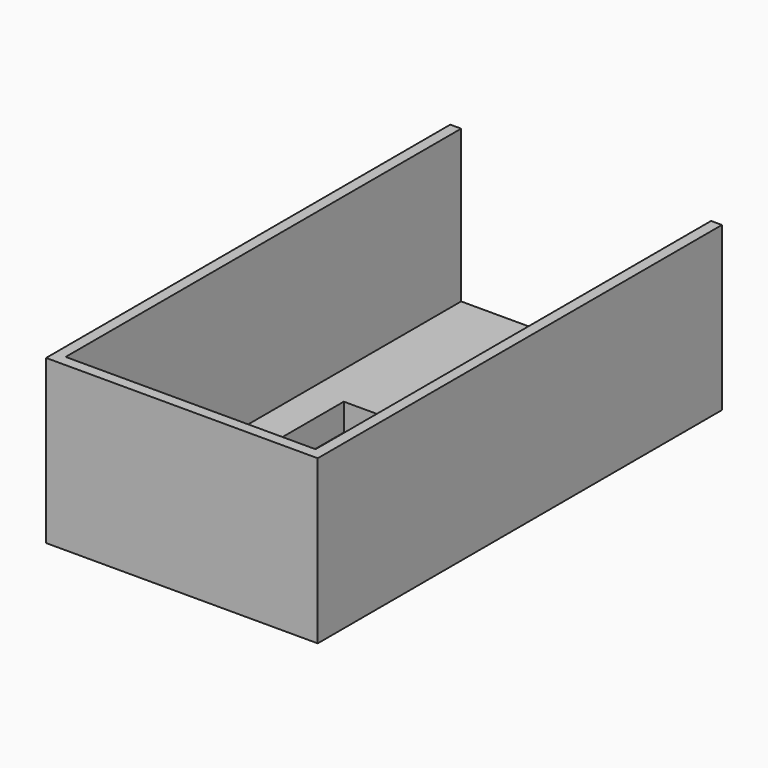
from build123d import *

# Parameters (mm, degrees)
F1_W     = 47.4542081356
F1_H     = 32.0040024817
F2_DEPTH = 6.35
F0_W     = 63.5
F0_H     = 120.65
F3_DEPTH = 38.1
F4_T     = -2.54
F5_DEPTH = 2.54
F6_W     = 9.9322763272
F6_H     = 13.2430342492
F7_DEPTH = 44.451


with BuildPart() as f2:
    # F1 (on Top) → F2 (new body)
    with BuildSketch(Plane.XY):
        Rectangle(F1_W, F1_H)
    extrude(amount=-F2_DEPTH)

    # F0 (on Top) → F3 (join)
    with BuildSketch(Plane.XY):
        Rectangle(F0_W, F0_H)
    extrude(amount=F3_DEPTH)

    # F4
    f4_openings = [f2.faces().sort_by_distance(p)[0] for p in [
        (0, 0, 38.1),
    ]]
    offset(amount=F4_T, openings=f4_openings, kind=Kind.INTERSECTION)

    # F5 (cut): a face of the model
    f5_faces = [f2.faces().sort_by_distance(p)[0] for p in [
        (0, 60.325, 19.05),
    ]]
    extrude(f5_faces, amount=-F5_DEPTH, mode=Mode.SUBTRACT)

    # F6 (on face) → F7 (cut, through all)
    with BuildSketch(Plane(origin=(0, 0, -6.35), x_dir=(1, 0, 0), z_dir=(0, 0, -1))):
        with Locations((11.5876549389, 3.8625515299)):
            Rectangle(F6_W, F6_H)
        with Locations((-10.7599645853, 4.1384489741)):
            Rectangle(F6_W, F6_H)
    extrude(amount=-F7_DEPTH, mode=Mode.SUBTRACT)


solid = f2.part
